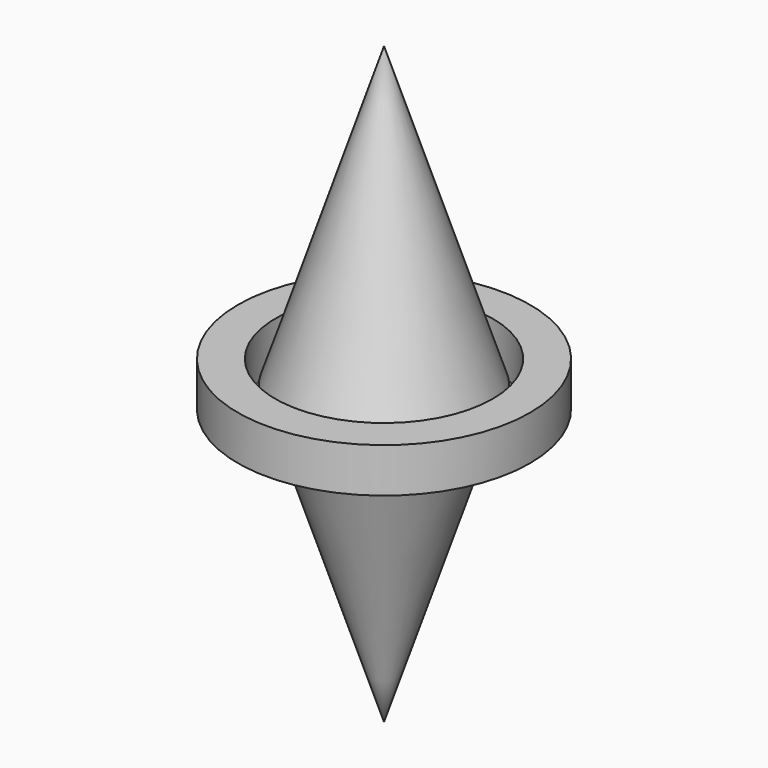
from build123d import *

# Parameters (mm, degrees)
F0_R     = 16.429488
F0_R_2   = 12.223204
F1_DEPTH = 2.5


with BuildPart() as f1:
    # F0 (on Top) → F1 (new body, symmetric)
    with BuildSketch(Plane.XY):
        Circle(F0_R)
        Circle(F0_R_2, mode=Mode.SUBTRACT)
    extrude(amount=F1_DEPTH, both=True)


with BuildPart() as f3:
    # F2 (on Front) → F3 (revolve)
    with BuildSketch(Plane.XZ):
        Polygon((0, -33.447064), (0, 33.447064), (-10.988372, 0), align=None)
    revolve(axis=Axis((0, 0, 0), (0, 0, -1)))


solid = Compound([f1.part, f3.part])
